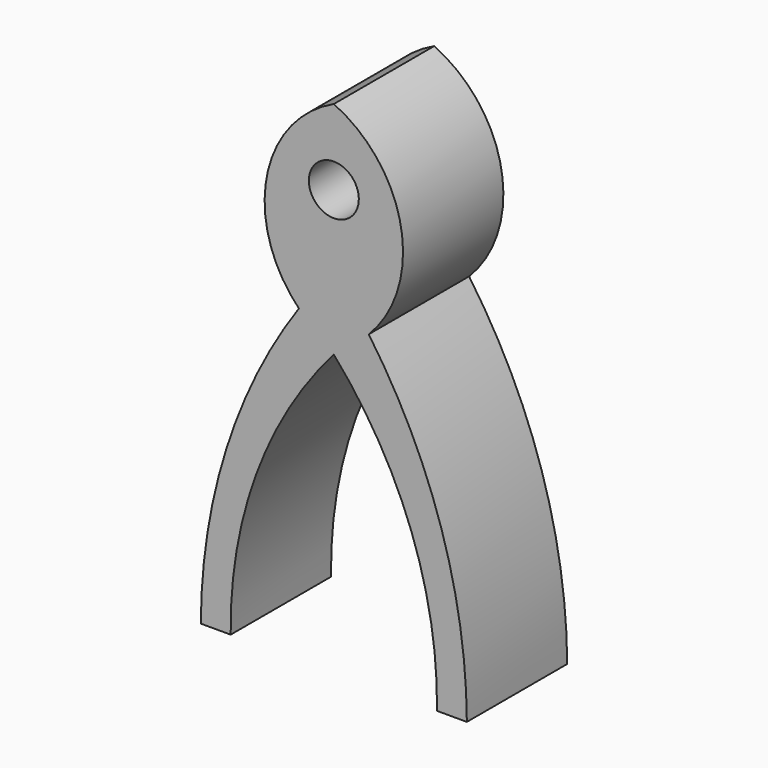
from build123d import *

# Parameters (mm, degrees)
F1_DEPTH = 5.08


with BuildPart() as f1:
    # F0 (on Front) → F1 (new body)
    with BuildSketch(Plane.XZ):
        with BuildLine():
            Line((5.388346, 11.34711), (5.388346, 14.346635))
            ThreePointArc((5.388346, 14.346635), (4.657395, 13.456206), (3.973847, 12.52889))
            ThreePointArc((3.973847, 12.52889), (1.033734, 6.566773), (0, 0))
            Line((0, 0), (1.210855, 0))
            ThreePointArc((1.210855, 0), (2.245265, 6.061714), (5.388346, 11.34711))
        make_face()
        with BuildLine():
            ThreePointArc((6.802844, 12.52889), (6.119296, 13.456206), (5.388346, 14.346635))
            Line((5.388346, 14.346635), (5.388346, 11.34711))
            ThreePointArc((5.388346, 11.34711), (8.531426, 6.061714), (9.565836, 0))
            Line((9.565836, 0), (10.776691, 0))
            ThreePointArc((10.776691, 0), (9.742957, 6.566773), (6.802844, 12.52889))
        make_face()
        with BuildLine():
            Line((5.388346, 16.206372), (5.388346, 14.346635))
            ThreePointArc((5.388346, 14.346635), (6.119296, 13.456206), (6.802844, 12.52889))
            ThreePointArc((6.802844, 12.52889), (8.113047, 16.772493), (5.388346, 20.279743))
            Line((5.388346, 20.279743), (5.388346, 18.229571))
            ThreePointArc((5.388346, 18.229571), (6.399945, 17.217972), (5.388346, 16.206372))
        make_face()
        with BuildLine():
            ThreePointArc((3.973847, 12.52889), (4.657395, 13.456206), (5.388346, 14.346635))
            Line((5.388346, 14.346635), (5.388346, 16.206372))
            ThreePointArc((5.388346, 16.206372), (4.376746, 17.217972), (5.388346, 18.229571))
            Line((5.388346, 18.229571), (5.388346, 20.279743))
            ThreePointArc((5.388346, 20.279743), (2.663644, 16.772493), (3.973847, 12.52889))
        make_face()
    extrude(amount=F1_DEPTH)


solid = f1.part
